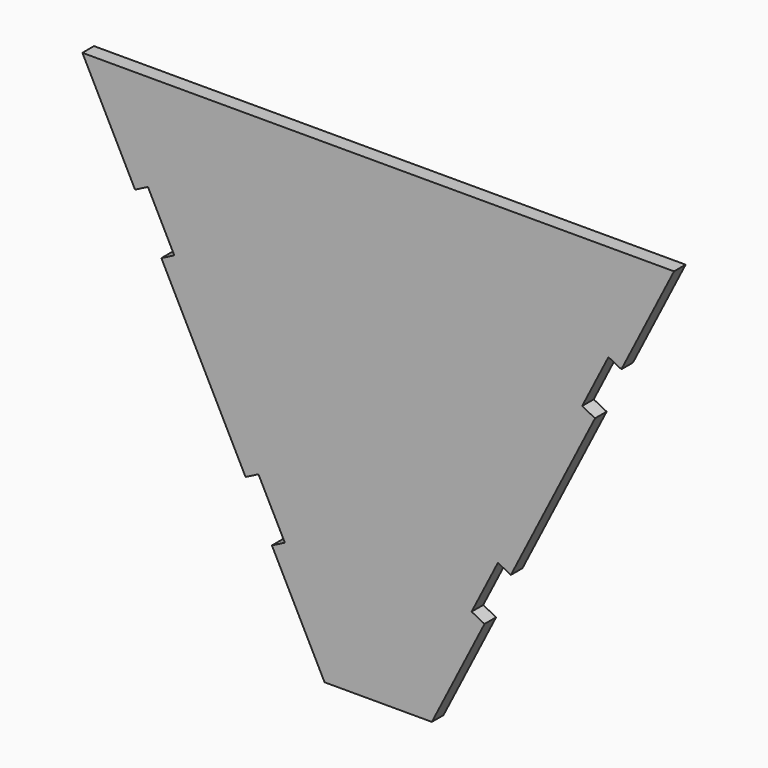
from build123d import *

# Parameters (mm, degrees)
F1_DEPTH = 3.175


with BuildPart() as f1:
    # F0 (on Front) → F1 (new body)
    with BuildSketch(Plane.XZ):
        Polygon((0, -52.045271), (11.7475, -52.045271), (23.276094, -29.412297), (20.446972, -27.971223), (26.211269, -16.654736), (29.04039, -18.09581), (47.475373, 18.09581), (44.646251, 19.536884), (50.410548, 30.853371), (53.239669, 29.412297), (64.768263, 52.045271), (-64.768263, 52.045271), (-53.239669, 29.412297), (-50.410548, 30.853371), (-44.646251, 19.536884), (-47.475373, 18.09581), (-29.04039, -18.09581), (-26.211269, -16.654736), (-20.446972, -27.971223), (-23.276094, -29.412297), (-11.7475, -52.045271), align=None)
    extrude(amount=F1_DEPTH)


solid = f1.part
